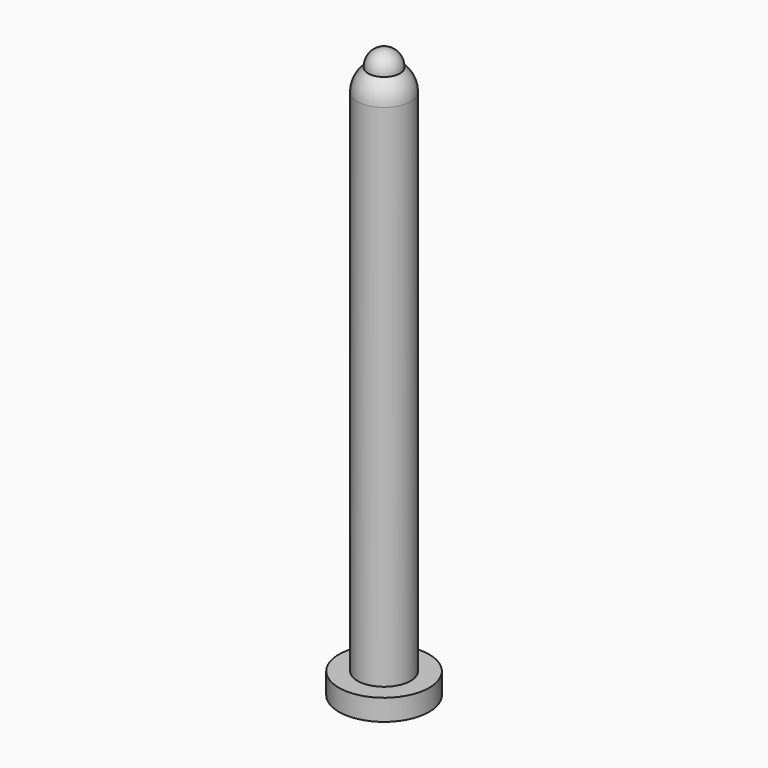
from build123d import *

# Parameters (mm, degrees)
F0_R     = 8.5
F1_DEPTH = 4
F2_R     = 5
F3_DEPTH = 100


with BuildPart() as f1:
    # F0 (on Top) → F1 (new body)
    with BuildSketch(Plane.XY):
        Circle(F0_R)
    extrude(amount=F1_DEPTH)

    # F2 (on Top) → F3 (join)
    with BuildSketch(Plane.XY):
        Circle(F2_R)
    extrude(amount=F3_DEPTH)

    # F4 (on Right) → F5 (revolve)
    with BuildSketch(Plane.YZ):
        with BuildLine():
            Line((0, 104.0042367491), (0, 100))
            Line((0, 100), (5, 100))
            ThreePointArc((5, 100), (4.470554405, 102.2392282849), (2.9943426753, 104.0042367491))
            Line((2.9943426753, 104.0042367491), (0, 104.0042367491))
        make_face()
        with BuildLine():
            ThreePointArc((0, 105), (1.5777858306, 104.7445328403), (2.9943426753, 104.0042367491))
            ThreePointArc((2.9943426753, 104.0042367491), (2.1854582893, 106.243570465), (0, 107.1883887053))
            Line((0, 107.1883887053), (0, 105))
        make_face()
        with BuildLine():
            Line((0, 105), (0, 104.0042367491))
            Line((0, 104.0042367491), (2.9943426753, 104.0042367491))
            ThreePointArc((2.9943426753, 104.0042367491), (1.5777858306, 104.7445328403), (0, 105))
        make_face()
    revolve(axis=Axis((0, 0, 103.5941943526), (0, 0, -1)))


solid = f1.part
